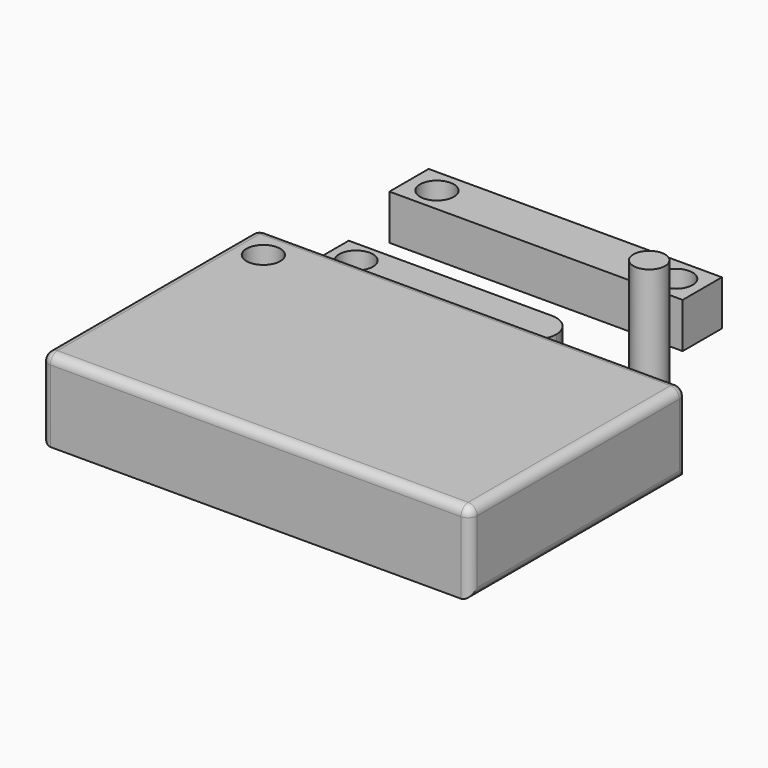
from build123d import *

# Parameters (mm, degrees)
F0_R     = 3.75
F1_DEPTH = 5
F0_W     = 95
F0_H     = 60
F2_DEPTH = 18
F0_R_2   = 3.5
F3_DEPTH = 25
F4_R     = 2
F0_W_2   = 65
F0_H_2   = 10.874569
F5_DEPTH = 10


with BuildPart() as f1:
    # F0 (on Top) → F1 (new body)
    with BuildSketch(Plane.XY):
        with BuildLine():
            Line((-8.306668, 48.151611), (-53.306668, 48.151611))
            Line((-53.306668, 48.151611), (-53.306668, 38.151611))
            Line((-53.306668, 38.151611), (-8.306668, 38.151611))
            ThreePointArc((-8.306668, 38.151611), (-4.771134, 39.616077), (-3.306668, 43.151611))
            ThreePointArc((-3.306668, 43.151611), (-4.771134, 46.687145), (-8.306668, 48.151611))
        make_face()
        with Locations((-47.680058, 43.153137)):
            Circle(F0_R, mode=Mode.SUBTRACT)
    extrude(amount=F1_DEPTH)


with BuildPart() as f2:
    # F0 (on Top) → F2 (new body)
    with BuildSketch(Plane.XY):
        with Locations((-5.806668, -7.006378)):
            Rectangle(F0_W, F0_H)
        with Locations((-45.905903, 15.250529)):
            Circle(F0_R, mode=Mode.SUBTRACT)
    extrude(amount=F2_DEPTH)

    # F4
    f4_edges = [f2.edges().sort_by_distance(p)[0] for p in [
        (-5.806668, 22.993622, 18),
        (-53.306668, -7.006378, 18),
        (41.693332, -7.006378, 18),
        (-5.806668, -37.006378, 18),
        (-53.306668, 22.993622, 9),
        (-53.306668, -37.006378, 9),
        (-53.306668, -7.006378, 0),
        (41.693332, -37.006378, 9),
        (41.693332, 22.993622, 9),
        (41.693332, -7.006378, 0),
    ]]
    fillet(f4_edges, radius=F4_R)


with BuildPart() as f3:
    # F0 (on Top) → F3 (new body)
    with BuildSketch(Plane.XY):
        with Locations((15.866924, 44.927292)):
            Circle(F0_R_2)
    extrude(amount=F3_DEPTH)


with BuildPart() as f5:
    # F0 (on Top) → F5 (new body)
    with BuildSketch(Plane.XY):
        with Locations((-20.806668, 64.854718)):
            Rectangle(F0_W_2, F0_H_2)
        with Locations((-47.12528, 64.854719)):
            Circle(F0_R, mode=Mode.SUBTRACT)
        with Locations((5.797623, 64.854719)):
            Circle(F0_R, mode=Mode.SUBTRACT)
    extrude(amount=F5_DEPTH)


solid = Compound([f1.part, f2.part, f3.part, f5.part])
